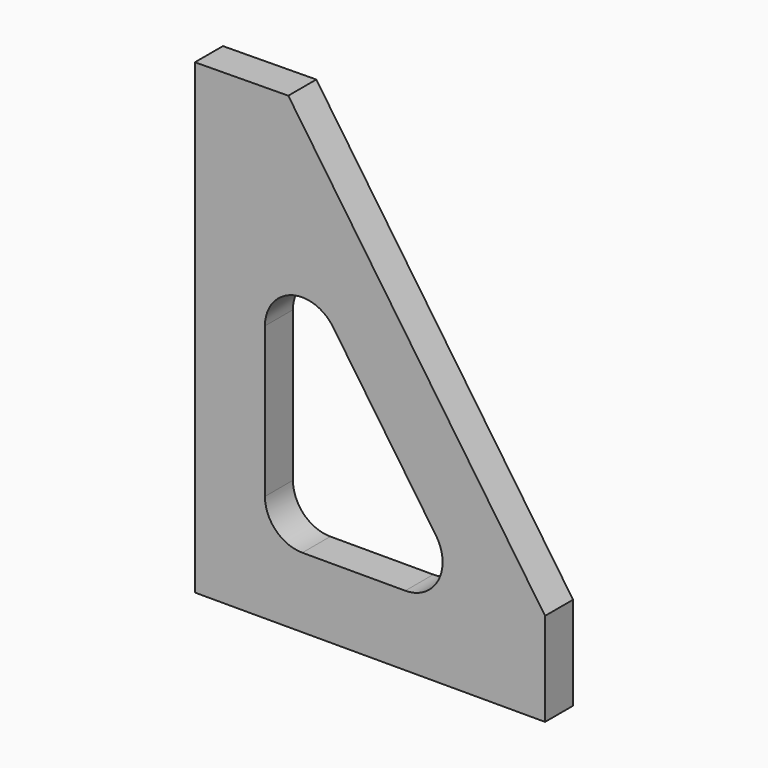
from build123d import *

# Parameters (mm, degrees)
F1_DEPTH = 9.525
F2_R     = 10.16


with BuildPart() as f1:
    # F0 (on Front) → F1 (new body)
    with BuildSketch(Plane.XZ):
        Polygon((-31.945355, 53.413631), (-57.344088, 53.159991), (-57.344088, -73.840009), (37.905912, -73.840009), (37.905912, -48.440009), align=None)
        Polygon((-38.294088, -54.790009), (-38.294088, 28.988602), (19.161316, -54.790009), align=None, mode=Mode.SUBTRACT)
    extrude(amount=F1_DEPTH)

    # F2
    f2_edges = [f1.edges().sort_by_distance(p)[0] for p in [
        (-38.294088, -4.7625, -54.790009),
        (19.161316, -4.7625, -54.790009),
        (-38.294088, -4.7625, 28.988602),
    ]]
    fillet(f2_edges, radius=F2_R)


solid = f1.part
